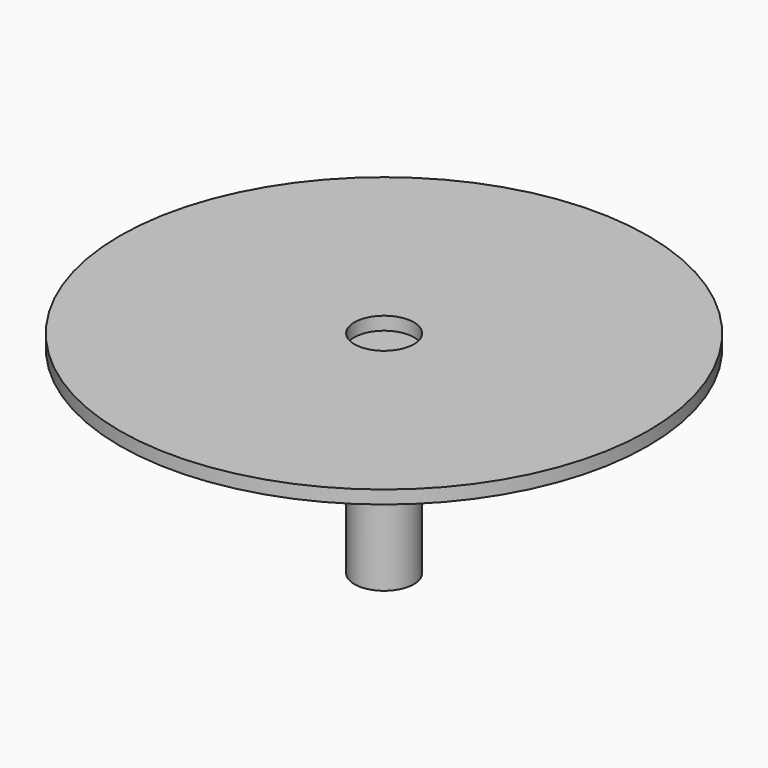
from build123d import *

# Parameters (mm, degrees)
F0_R     = 22.5
F1_DEPTH = 150
F2_R     = 200
F2_R_2   = 22.5
F3_DEPTH = 10


with BuildPart() as f1:
    # F0 (on Top) → F1 (new body)
    with BuildSketch(Plane.XY):
        with Locations((-1e-06, 0.125199)):
            Circle(F0_R)
    extrude(amount=F1_DEPTH)


with BuildPart() as f3:
    # F2 (on face) → F3 (new body)
    with BuildSketch(Plane.XY.offset(150)):
        Circle(F2_R)
        with Locations((-1e-06, 0.125199)):
            Circle(F2_R_2, mode=Mode.SUBTRACT)
    extrude(amount=F3_DEPTH)


solid = Compound([f1.part, f3.part])
